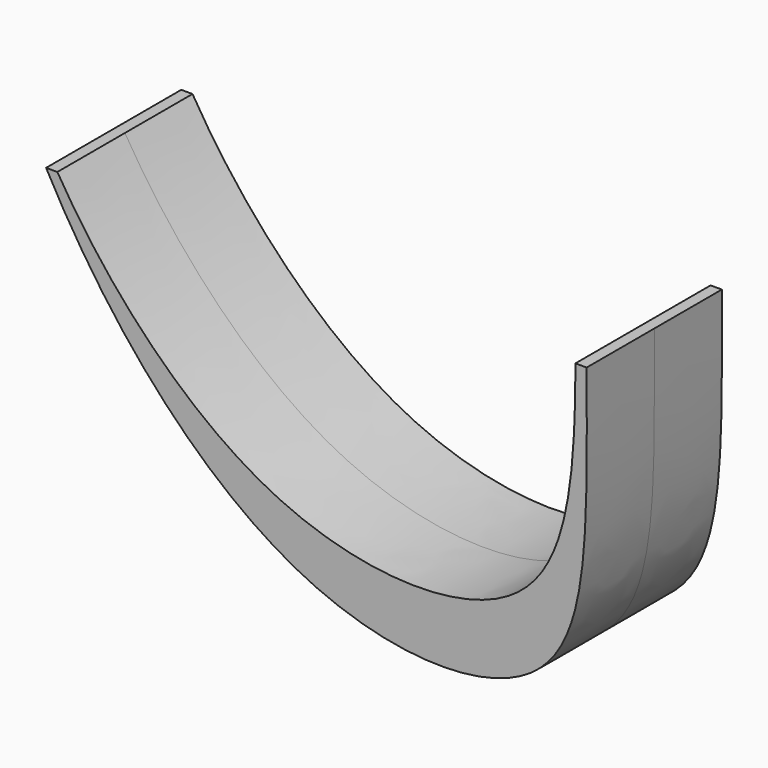
from build123d import *

# Parameters (mm, degrees)
F1_DEPTH = 190.5


with BuildPart() as f1:
    # F0 (on Front) → F1 (new body, symmetric)
    with BuildSketch(Plane.XZ):
        with BuildLine():
            Line((25.4, 635), (0, 635))
            add(Edge.make_bspline(
                [(0, 635), (144.0746518326, 365.7923622228), (523.4506210955, -79.4932444453), (1238.0058035162, -91.9382880073), (1219.2, 317.5), (1219.2, 635)],
                knots=[0, 0, 0, 0, 0.3832794358, 0.6720513491, 1, 1, 1, 1], degree=3))
            Line((1219.2, 635), (1193.8, 635))
            add(Edge.make_bspline(
                [(25.4, 635), (134.1248416572, 452.289338749), (469.5328017827, 70.0413728303), (1141.0094912555, 42.5613148589), (1193.8, 364.2124326753), (1193.8, 635)],
                knots=[0, 0, 0, 0, 0.3670965553, 0.6814603617, 1, 1, 1, 1], degree=3))
        make_face()
    extrude(amount=F1_DEPTH, both=True)


solid = f1.part
